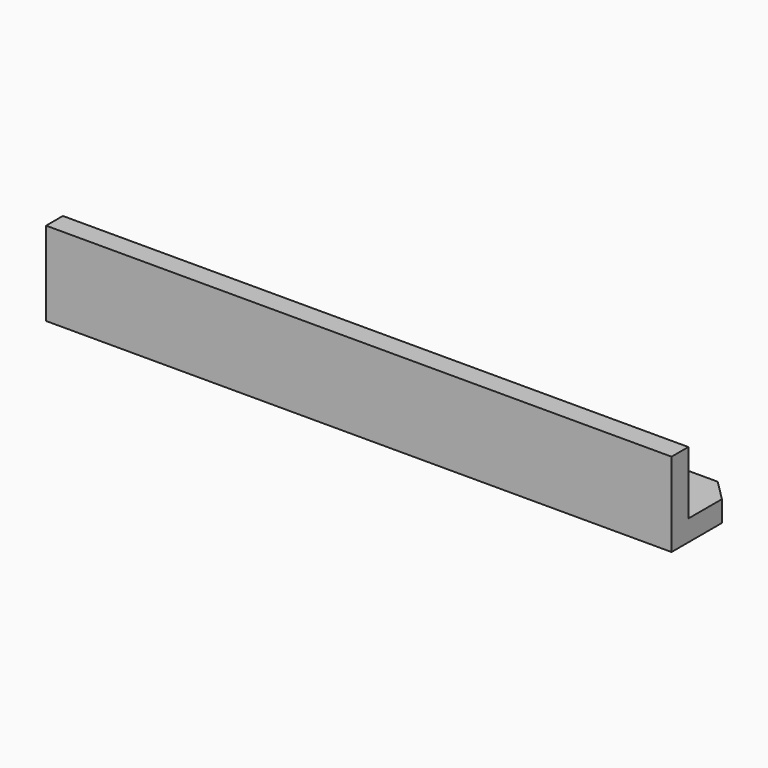
from build123d import *

# Parameters (mm, degrees)
F1_DEPTH = 149
F3_DEPTH = 20.001


with BuildPart() as f1:
    # F0 (on Right) → F1 (new body)
    with BuildSketch(Plane.YZ):
        Polygon((0, 20), (0, 0), (20, 0), (20, 5), (5, 5), (5, 20), align=None)
    extrude(amount=F1_DEPTH)

    # F2 (on Top) → F3 (cut, through all)
    with BuildSketch(Plane.XY):
        Polygon((5, 20), (0, 20), (0, 15), align=None)
        Polygon((149, 15), (149, 20), (144, 20), align=None)
    extrude(amount=F3_DEPTH, mode=Mode.SUBTRACT)


solid = f1.part
